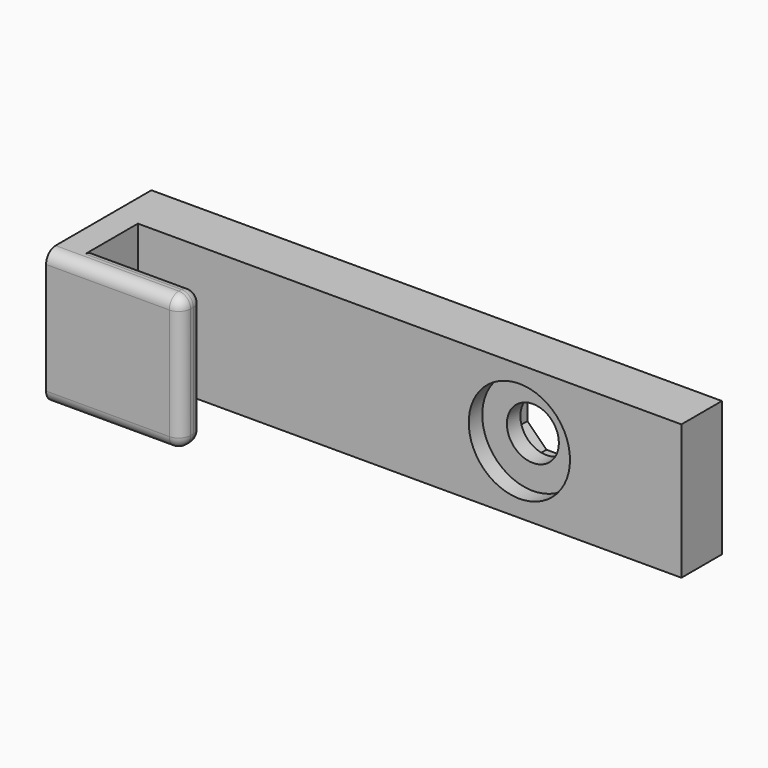
from build123d import *

# Parameters (mm, degrees)
SKETCH076_W             = 40
SKETCH076_H             = 15
PAD026_DEPTH            = 50
SKETCH078_W             = 40
SKETCH078_H             = 24
PAD027_DEPTH            = 40
SKETCH079_W             = 32
SKETCH079_H             = 16
POCKET046_DEPTH         = 40.001
FILLET010_R             = 3.5
BODY011_ROLL_ANGLE      = 90
BODY011_PLACEMENT_ANGLE = 180
SKETCH057_W             = 120
SKETCH057_H             = 40
PAD021_DEPTH            = 15
SKETCH058_R             = 15
POCKET034_DEPTH         = 5
POCKET035_DEPTH         = 5
SKETCH060_R             = 7.7
POCKET036_DEPTH         = 15.001


with BuildPart() as obj1:
    # Sketch076 → Pad026 (new body)
    with BuildSketch(Plane.YZ):
        with Locations((20, 7.5)):
            Rectangle(SKETCH076_W, SKETCH076_H)
    extrude(amount=PAD026_DEPTH)

    # Sketch078 → Pad027 (join)
    with BuildSketch(Plane.XZ):
        with Locations((30, -12)):
            Rectangle(SKETCH078_W, SKETCH078_H)
    extrude(amount=-PAD027_DEPTH)

    # Sketch079 → Pocket046 (cut, through all)
    with BuildSketch(Plane.XZ):
        with Locations((26, -8)):
            Rectangle(SKETCH079_W, SKETCH079_H)
    extrude(amount=-POCKET046_DEPTH, mode=Mode.SUBTRACT)

    # Fillet010
    fillet010_edges = [obj1.edges().sort_by_distance(p)[0] for p in [
        (10, 20, -24),
        (10, 0, -20),
        (26, 0, -16),
        (30, 0, -24),
        (10, 20, -16),
        (10, 40, -20),
        (30, 40, -24),
        (26, 40, -16),
    ]]
    fillet(fillet010_edges, radius=FILLET010_R)


with BuildPart() as obj1_1:
    # Body011 roll: moved
    add(obj1.part.rotate(Axis((0, 0, 0), (1, 0, 0)), BODY011_ROLL_ANGLE))


with BuildPart() as obj1_2:
    # Body011 placement: moved
    add(obj1_1.part.moved(Location((-71, -15, -20))).rotate(Axis((-71, -15, -20), (0, 0, 1)), BODY011_PLACEMENT_ANGLE))


with BuildPart() as bracket_b:
    # Sketch057 → Pad021 (new body)
    with BuildSketch(Plane.XZ):
        with Locations((-12, 0)):
            Rectangle(SKETCH057_W, SKETCH057_H)
    extrude(amount=PAD021_DEPTH)

    # Sketch058 (on Face6 of Pad021) → Pocket034 (cut)
    with BuildSketch(Plane.XZ.offset(15)):
        Circle(SKETCH058_R)
    extrude(amount=-POCKET034_DEPTH, mode=Mode.SUBTRACT)

    # Sketch059 → Pocket035 (cut)
    with BuildSketch(Plane.XZ):
        Polygon((9.608347, 3.979908), (3.979908, 9.608347), (-3.979908, 9.608347), (-9.608347, 3.979908), (-9.608347, -3.979908), (-3.979908, -9.608347), (3.979908, -9.608347), (9.608347, -3.979908), align=None)
    extrude(amount=POCKET035_DEPTH, mode=Mode.SUBTRACT)

    # Sketch060 → Pocket036 (cut, through all)
    with BuildSketch(Plane.XZ):
        Circle(SKETCH060_R)
    extrude(amount=POCKET036_DEPTH, mode=Mode.SUBTRACT)

    # Boolean: union obj1
    add(obj1_2.part)


solid = bracket_b.part
